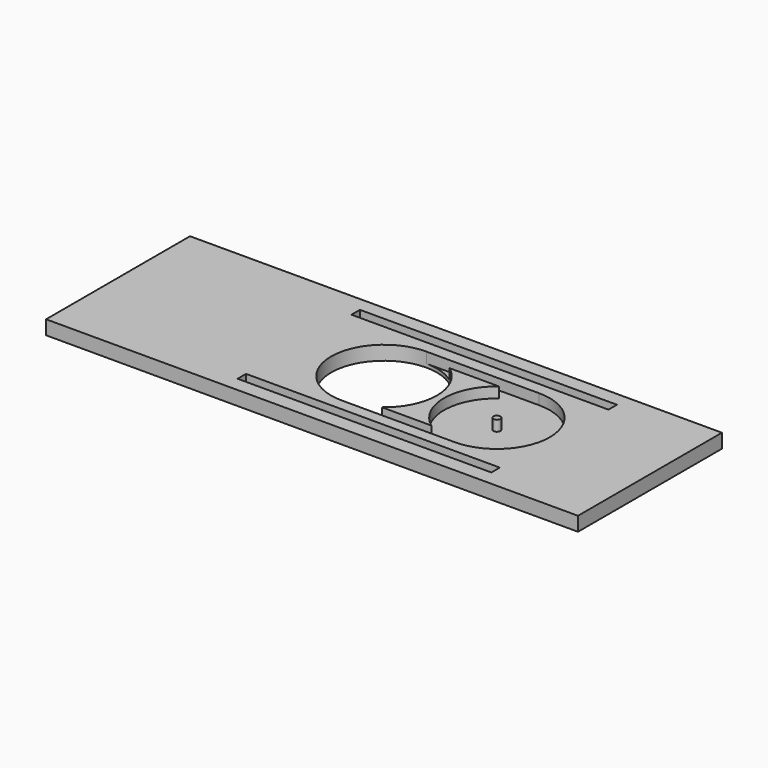
from build123d import *

# Parameters (mm, degrees)
SKETCH_W        = 75.4
SKETCH_H        = 25.5
PAD_DEPTH       = 2
SKETCH001_R     = 7.5
POCKET_DEPTH    = 2
SKETCH002_R     = 7.5
POCKET001_DEPTH = 1.5
SKETCH003_R     = 0.5
PAD001_DEPTH    = 2
SKETCH004_W     = 16
SKETCH004_H     = 1.5
POCKET002_DEPTH = 1.5
SKETCH006_W     = 36.435092
SKETCH006_H     = 1.5
SKETCH006_W_2   = 35.97442
POCKET003_DEPTH = 1


with BuildPart() as part:
    # Sketch → Pad (new body)
    with BuildSketch(Plane.XY):
        Rectangle(SKETCH_W, SKETCH_H)
    extrude(amount=PAD_DEPTH)

    # Sketch001 (on Face6 of Pad) → Pocket (cut)
    with BuildSketch(Plane.XY.offset(2)):
        Circle(SKETCH001_R)
    extrude(amount=-POCKET_DEPTH, mode=Mode.SUBTRACT)

    # Sketch002 (on Face5 of Pocket) → Pocket001 (cut)
    with BuildSketch(Plane.XY.offset(2)):
        with Locations((16, 0)):
            Circle(SKETCH002_R)
    extrude(amount=-POCKET001_DEPTH, mode=Mode.SUBTRACT)

    # Sketch003 (on Face5 of Pocket001) → Pad001 (join)
    with BuildSketch(Plane.XY.offset(2)):
        with Locations((16, 0)):
            Circle(SKETCH003_R)
    extrude(amount=-PAD001_DEPTH)

    # Sketch004 (on Face5 of Pad001) → Pocket002 (cut)
    with BuildSketch(Plane.XY.offset(2)):
        with Locations((8, 6.75)):
            Rectangle(SKETCH004_W, SKETCH004_H)
        with Locations((8, -6.75)):
            Rectangle(SKETCH004_W, SKETCH004_H)
    extrude(amount=-POCKET002_DEPTH, mode=Mode.SUBTRACT)

    # Sketch006 (on Face5 of Pocket002) → Pocket003 (cut)
    with BuildSketch(Plane.XY.offset(2)):
        with Locations((6.223254, 9.974189)):
            Rectangle(SKETCH006_W, SKETCH006_H)
        with Locations((5.741651, -9.886934)):
            Rectangle(SKETCH006_W_2, SKETCH006_H)
    extrude(amount=-POCKET003_DEPTH, mode=Mode.SUBTRACT)


solid = part.part
